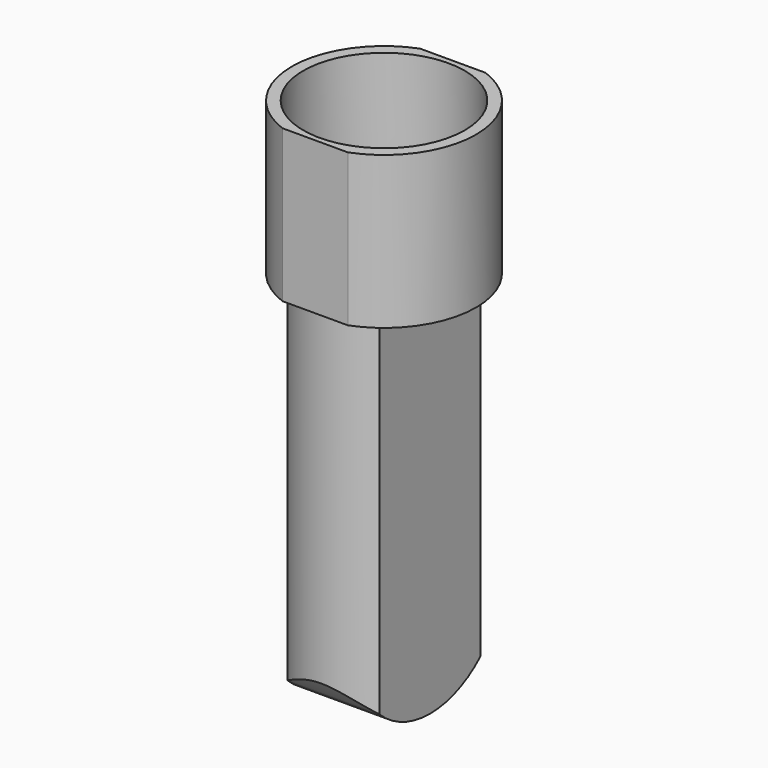
from build123d import *

# Parameters (mm, degrees)
F1_DEPTH = 38
F2_R     = 20.15
F3_DEPTH = 26
F5_DEPTH = 93
F7_DEPTH = 34.501


with BuildPart() as f1:
    # F0 (on Top) → F1 (new body)
    with BuildSketch(Plane.XY):
        with BuildLine():
            Line((8.170067, 21.5), (-8.170067, 21.5))
            ThreePointArc((-8.170067, 21.5), (-23, 0), (-8.170067, -21.5))
            Line((-8.170067, -21.5), (8.170067, -21.5))
            ThreePointArc((8.170067, -21.5), (23, 0), (8.170067, 21.5))
        make_face()
    extrude(amount=F1_DEPTH)

    # F2 (on face) → F3 (cut)
    with BuildSketch(Plane.XY.offset(38)):
        Circle(F2_R)
    extrude(amount=-F3_DEPTH, mode=Mode.SUBTRACT)

    # F4 (on face) → F5 (join)
    with BuildSketch(Plane(origin=(0, 0, 0), x_dir=(1, 0, 0), z_dir=(0, 0, -1))):
        with BuildLine():
            Line((-11.5, 15.748016), (-11.5, -15.748016))
            ThreePointArc((-11.5, -15.748016), (0, -19.5), (11.5, -15.748016))
            Line((11.5, -15.748016), (11.5, 15.748016))
            ThreePointArc((11.5, 15.748016), (0, 19.5), (-11.5, 15.748016))
        make_face()
    extrude(amount=F5_DEPTH)

    # F6 (on face) → F7 (cut, through all)
    with BuildSketch(Plane(origin=(-11.5, 0, 0), x_dir=(0, -1, 0), z_dir=(-1, 0, 0))):
        with BuildLine():
            ThreePointArc((15.748016, -86.763055), (8.469054, -91.383992), (0, -93))
            Line((0, -93), (15.748016, -93))
            Line((15.748016, -93), (15.748016, -86.763055))
        make_face()
        with BuildLine():
            ThreePointArc((0, -93), (-8.469054, -91.383992), (-15.748016, -86.763055))
            Line((-15.748016, -86.763055), (-15.748016, -93))
            Line((-15.748016, -93), (0, -93))
        make_face()
        with BuildLine():
            ThreePointArc((-15.748016, -86.763055), (-20.889414, -79.624572), (-22.974722, -71.078028))
            Line((-22.974722, -71.078028), (-36.085155, -107.690454))
            Line((-36.085155, -107.690454), (35.204031, -105.778486))
            Line((35.204031, -105.778486), (22.73383, -73.488979))
            ThreePointArc((22.73383, -73.488979), (20.353461, -80.711518), (15.748016, -86.763055))
            Line((15.748016, -86.763055), (15.748016, -93))
            Line((15.748016, -93), (0, -93))
            Line((0, -93), (-15.748016, -93))
            Line((-15.748016, -93), (-15.748016, -86.763055))
        make_face()
    extrude(amount=-F7_DEPTH, mode=Mode.SUBTRACT)


solid = f1.part
